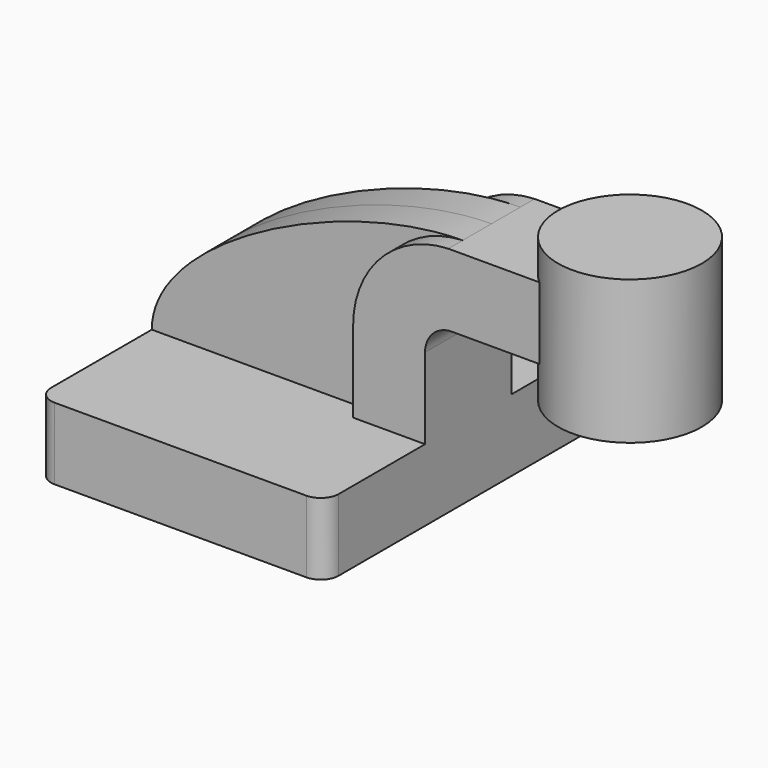
from build123d import *

# Parameters (mm, degrees)
F1_DEPTH = 63.5
F0_W     = 25.4
F0_H     = 25.4
F2_DEPTH = 19.05
F4_DEPTH = 12.7
F5_R     = 6.35


with BuildPart() as f1:
    # F0 (on Front) → F1 (new body, symmetric)
    with BuildSketch(Plane.XZ):
        Polygon((-50.8, 12.7), (-50.8, -12.7), (50.8, -12.7), (50.8, 12.7), (25.4, 12.7), align=None)
    extrude(amount=F1_DEPTH, both=True)

    # F0 (on Front) → F2 (join, symmetric)
    with BuildSketch(Plane.XZ):
        with BuildLine():
            Line((25.4, 12.7), (50.8, 12.7))
            Line((50.8, 12.7), (50.8, 41.2740438906))
            ThreePointArc((50.8, 41.2740438906), (53.3553304038, 47.7662954815), (59.6502531694, 50.7751144469))
            Line((59.6502531694, 50.7751144469), (82.55, 50.7751144469))
            Line((82.55, 50.7751144469), (82.55, 76.1751144469))
            Line((82.55, 76.1751144469), (59.0323674039, 76.1751144469))
            ThreePointArc((59.0323674039, 76.1751144469), (35.1764332574, 65.5084247532), (25.4, 41.2740438906))
            Line((25.4, 41.2740438906), (25.4, 12.7))
        make_face()
        with Locations((95.25, 63.4751144469)):
            Rectangle(F0_W, F0_H)
    extrude(amount=F2_DEPTH, both=True)

    # F0 (on Front) → F3 (revolve)
    with BuildSketch(Plane.XZ):
        Polygon((107.95, 87.98056042), (107.95, 76.1751144469), (107.95, 50.7751144469), (107.95, 37.18056042), (133.35, 37.18056042), (133.35, 87.98056042), align=None)
    revolve(axis=Axis((107.95, 0, 62.58056042), (0, 0, 1)))

    # F0 (on Front) → F4 (join, symmetric)
    with BuildSketch(Plane.XZ):
        with BuildLine():
            add(Edge.make_bspline(
                [(-50.8, 12.7), (-50.7150068879, 43.1761480868), (16.0312987864, 76.0926790535), (59.0323674039, 76.1751144469)],
                knots=[0, 0, 0, 0, 126.8551894232, 126.8551894232, 126.8551894232, 126.8551894232], degree=3))
            Line((-50.8, 12.7), (25.4, 12.7))
            Line((25.4, 12.7), (25.4, 41.2740438906))
            ThreePointArc((25.4, 41.2740438906), (35.1764332574, 65.5084247532), (59.0323674039, 76.1751144469))
        make_face()
    extrude(amount=F4_DEPTH, both=True)

    # F5
    f5_edges = [f1.edges().sort_by_distance(p)[0] for p in [
        (50.8, -63.5, 0),
        (-50.8, -63.5, 0),
        (-50.8, 63.5, 0),
        (50.8, 63.5, 0),
    ]]
    fillet(f5_edges, radius=F5_R)


solid = f1.part
